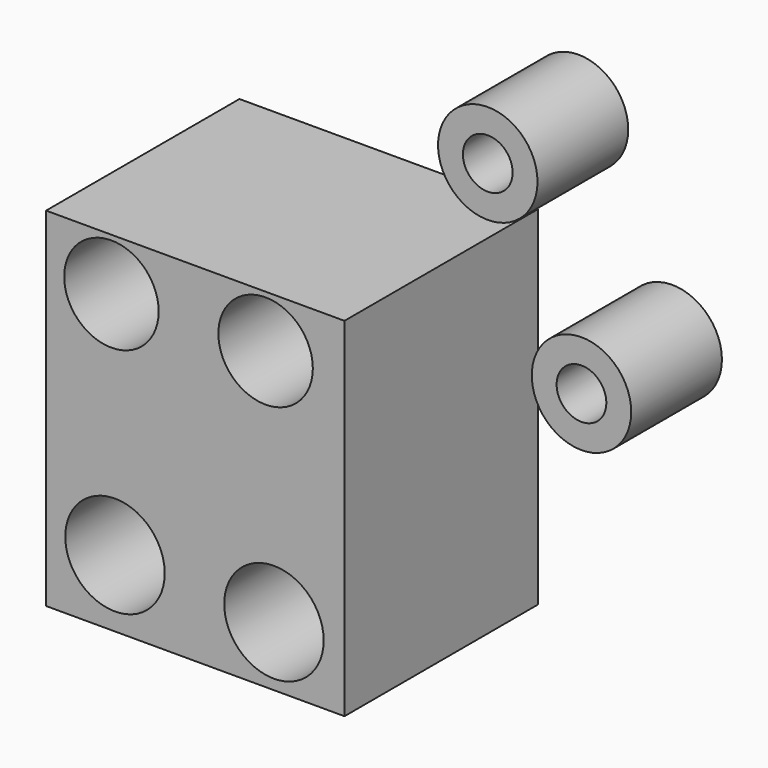
from build123d import *

# Parameters (mm, degrees)
F0_W     = 76.2
F0_H     = 88.9
F0_R     = 12.7
F0_R_2   = 12.065
F1_DEPTH = 61.722
F2_R     = 12.7
F2_R_2   = 6.35
F3_DEPTH = 28.956


with BuildPart() as f1:
    # F0 (on Front) → F1 (new body)
    with BuildSketch(Plane.XZ):
        with Locations((-87.55563, -23.836341)):
            Rectangle(F0_W, F0_H)
        with Locations((-108.057914, -51.098192)):
            Circle(F0_R, mode=Mode.SUBTRACT)
        with Locations((-67.462839, -53.008545)):
            Circle(F0_R, mode=Mode.SUBTRACT)
        with Locations((-108.967952, 7.278659)):
            Circle(F0_R_2, mode=Mode.SUBTRACT)
        with Locations((-69.597952, 7.278659)):
            Circle(F0_R_2, mode=Mode.SUBTRACT)
    extrude(amount=F1_DEPTH)


with BuildPart() as f3:
    # F2 (on Front) → F3 (new body)
    with BuildSketch(Plane.XZ):
        with Locations((-39.068884, 46.045405)):
            Circle(F2_R)
        with Locations((-39.068884, 46.045405)):
            Circle(F2_R_2, mode=Mode.SUBTRACT)
        with Locations((-15.139736, 2.077211)):
            Circle(F2_R)
        with Locations((-15.139736, 2.077211)):
            Circle(F2_R_2, mode=Mode.SUBTRACT)
    extrude(amount=F3_DEPTH)


solid = Compound([f1.part, f3.part])
